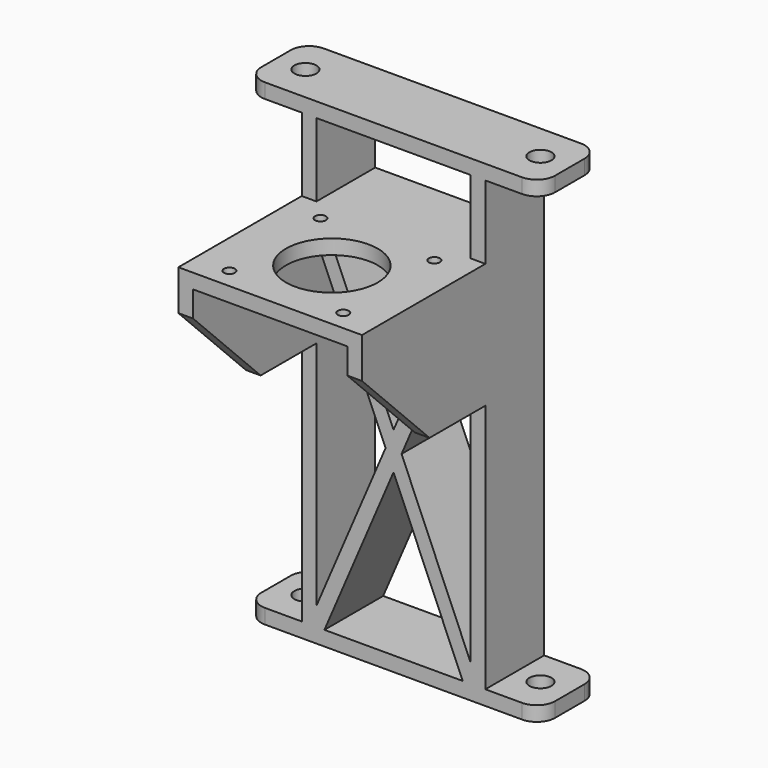
from build123d import *

# Parameters (mm, degrees)
F1_DEPTH = 20
F2_DEPTH = 62
F3_R     = 12.5
F3_R_2   = 1.5
F3_R_3   = 3
F4_DEPTH = 130
F5_SIZE  = 23
F6_R     = 5


with BuildPart() as f1:
    # F0 (on Front) → F1 (new body)
    with BuildSketch(Plane.XZ):
        Polygon((40, 130), (0, 130), (-40, 130), (-40, 126), (-25, 126), (-25, 106), (-21, 106), (-21, 126), (0, 126), (21, 126), (21, 106), (25, 106), (25, 126), (40, 126), align=None)
        Polygon((-21, 106), (-25, 106), (-25, 72), (-21, 72), (-21, 96.922818), (-21, 102), (-18.824065, 102), (0, 102), (18.824065, 102), (21, 102), (21, 96.922818), (21, 72), (25, 72), (25, 106), (21, 106), (0, 106), align=None)
        Polygon((-21, 72), (-25, 72), (-25, 4), (-40, 4), (-40, 0), (0, 0), (40, 0), (40, 4), (25, 4), (25, 72), (21, 72), (21, 9.077182), (21, 4), (18.824065, 4), (0, 4), (-18.824065, 4), (-21, 4), (-21, 9.077182), align=None)
        Polygon((-21, 102), (-21, 96.922818), (-2.175935, 53), (-21, 9.077182), (-21, 4), (-18.824065, 4), (0, 47.922818), (18.824065, 4), (21, 4), (21, 9.077182), (2.175935, 53), (21, 96.922818), (21, 102), (18.824065, 102), (0, 58.077182), (-18.824065, 102), align=None)
    extrude(amount=F1_DEPTH)

    # F0 (on Front) → F2 (join)
    with BuildSketch(Plane.XZ):
        Polygon((-21, 106), (-25, 106), (-25, 72), (-21, 72), (-21, 96.922818), (-21, 102), (-18.824065, 102), (0, 102), (18.824065, 102), (21, 102), (21, 96.922818), (21, 72), (25, 72), (25, 106), (21, 106), (0, 106), align=None)
    extrude(amount=F2_DEPTH)

    # F3 (on face) → F4 (cut)
    with BuildSketch(Plane.XY.offset(130)):
        with Locations((0, -41)):
            Circle(F3_R)
        with Locations((-15.5, -56.5)):
            Circle(F3_R_2)
        with Locations((15.5, -56.5)):
            Circle(F3_R_2)
        with Locations((15.5, -25.5)):
            Circle(F3_R_2)
        with Locations((-15.5, -25.5)):
            Circle(F3_R_2)
        with Locations((-32, -10)):
            Circle(F3_R_3)
        with Locations((32, -10)):
            Circle(F3_R_3)
    extrude(amount=-F4_DEPTH, mode=Mode.SUBTRACT)

    # F5
    f5_edges = [f1.edges().sort_by_distance(p)[0] for p in [
        (-23, -62, 72),
        (23, -62, 72),
    ]]
    chamfer(f5_edges, length=F5_SIZE)

    # F6
    f6_edges = [f1.edges().sort_by_distance(p)[0] for p in [
        (-40, 0, 128),
        (-40, -20, 128),
        (40, 0, 128),
        (40, -20, 128),
        (40, 0, 2),
        (40, -20, 2),
        (-40, 0, 2),
        (-40, -20, 2),
    ]]
    fillet(f6_edges, radius=F6_R)


solid = f1.part
